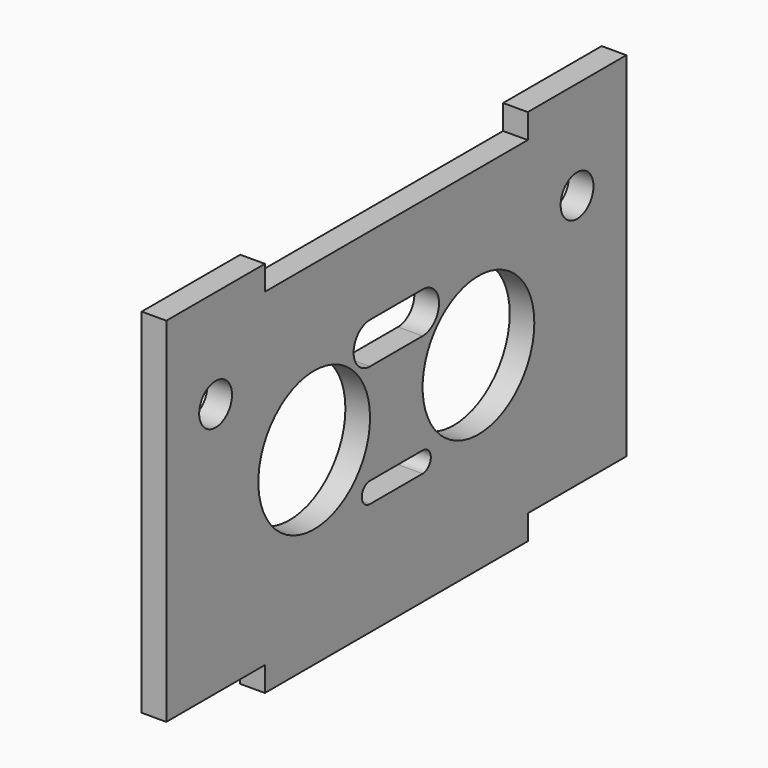
from build123d import *

# Parameters (mm, degrees)
PAD002_DEPTH    = 3
SKETCH008_R     = 8.5
POCKET005_DEPTH = 3.001
SKETCH009_R     = 2.5
POCKET006_DEPTH = 3.001


with BuildPart() as part:
    # Sketch007 → Pad002 (new body)
    with BuildSketch(Plane.YZ):
        Polygon((-35, 43), (-20, 43), (-20, 40), (20, 40), (20, 43), (35, 43), (35, 0), (20, 0), (20, -3), (-20, -3), (-20, 0), (-35, 0), align=None)
    extrude(amount=PAD002_DEPTH)

    # Sketch008 → Pocket005 (cut, through all)
    with BuildSketch(Plane.YZ.offset(3)):
        with Locations((-12.5, 20)):
            Circle(SKETCH008_R)
        with Locations((12.5, 20)):
            Circle(SKETCH008_R)
        with BuildLine():
            Line((-4, 30.5), (4, 30.5))
            ThreePointArc((4, 25.5), (6.5, 28), (4, 30.5))
            Line((-4, 25.5), (4, 25.5))
            ThreePointArc((-4, 30.5), (-6.5, 28), (-4, 25.5))
        make_face()
        with BuildLine():
            Line((-4, 13.25), (4, 13.25))
            ThreePointArc((4, 10.75), (5.25, 12), (4, 13.25))
            Line((-4, 10.75), (4, 10.75))
            ThreePointArc((-4, 13.25), (-5.25, 12), (-4, 10.75))
        make_face()
    extrude(amount=-POCKET005_DEPTH, mode=Mode.SUBTRACT)

    # Sketch009 → Pocket006 (cut, through all)
    with BuildSketch(Plane.YZ.offset(3)):
        with Locations((-27.5, 31)):
            Circle(SKETCH009_R)
        with Locations((27.5, 31)):
            Circle(SKETCH009_R)
    extrude(amount=-POCKET006_DEPTH, mode=Mode.SUBTRACT)


solid = part.part
